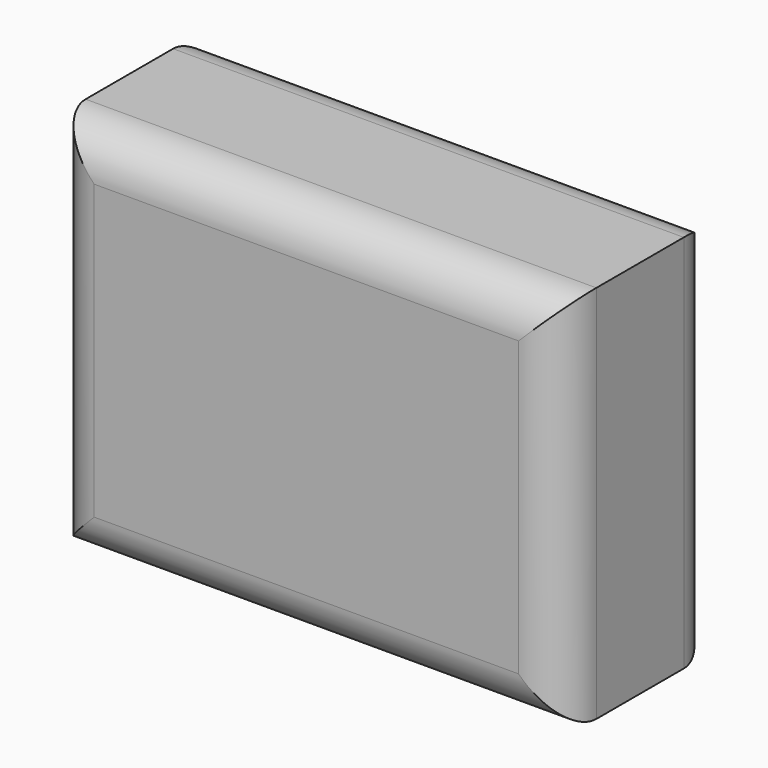
from build123d import *

# Parameters (mm, degrees)
F0_W     = 66.970591
F0_H     = 49.764709
F1_DEPTH = 25
F2_R     = 5.663986
F3_R     = 5


with BuildPart() as f1:
    # F0 (on Front) → F1 (new body)
    with BuildSketch(Plane.XZ):
        with Locations((1.852942, 0.926471)):
            Rectangle(F0_W, F0_H)
    extrude(amount=F1_DEPTH)

    # F2
    f2_edges = [f1.edges().sort_by_distance(p)[0] for p in [
        (1.852943, -25, 25.808826),
        (-31.632353, -25, 0.926471),
        (1.852943, -25, -23.955883),
        (35.338238, -25, 0.926471),
    ]]
    fillet(f2_edges, radius=F2_R)

    # F3
    f3_edges = [f1.edges().sort_by_distance(p)[0] for p in [
        (1.852943, 0, 25.808826),
        (-31.632353, 0, 0.926471),
        (1.852943, 0, -23.955883),
        (35.338238, 0, 0.926471),
    ]]
    fillet(f3_edges, radius=F3_R)


solid = f1.part
